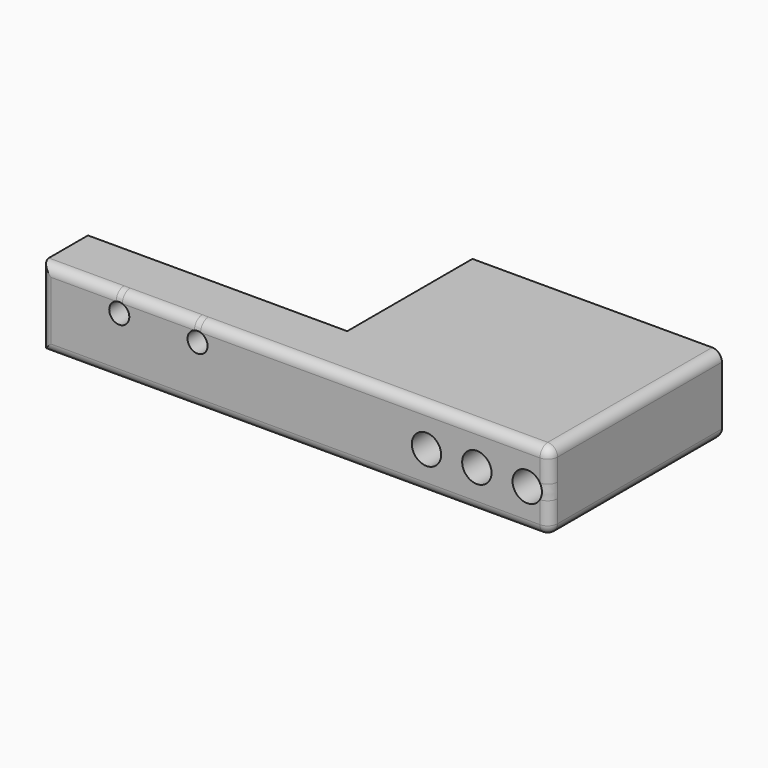
from build123d import *

# Parameters (mm, degrees)
PAD011_DEPTH    = 4
PAD012_DEPTH    = 4
PAD012_FACE11_W = 12
PAD012_FACE11_H = 8
PAD013_DEPTH    = 20
PAD014_DEPTH    = 10
SKETCH037_W     = 12
SKETCH037_H     = 2
POCKET014_DEPTH = 5
SKETCH038_W     = 12.9
SKETCH038_H     = 5.9
POCKET015_DEPTH = 5.9
SKETCH039_R     = 1.5
POCKET016_DEPTH = 20
SKETCH040_R     = 1.025
POCKET017_DEPTH = 5
SKETCH041_R     = 1.025
POCKET018_DEPTH = 20
FILLET002_R     = 1


with BuildPart() as part:
    # Sketch035 → Pad011 (new body)
    with BuildSketch(Plane.XY):
        Polygon((-7.5, -57), (19, -57), (19, -51), (24.5, -51), (24.5, -63), (-7.5, -63), align=None)
    extrude(amount=PAD011_DEPTH)

    # Sketch036 (on Face7 of Pad011) → Pad012 (join)
    with BuildSketch(Plane(origin=(0, 0, 0), x_dir=(1, 0, 0), z_dir=(0, 0, -1))):
        Polygon((-7.5, 63), (24.5, 63), (24.5, 51), (17, 51), (17, 55), (-7.5, 55), align=None)
    extrude(amount=PAD012_DEPTH)

    # Pad012 Face11 → Pad013 (add)
    with BuildSketch(Plane(origin=(24.5, -57, 0), x_dir=(0, -1, 0), z_dir=(1, 0, 0))):
        Rectangle(PAD012_FACE11_W, PAD012_FACE11_H)
    extrude(amount=PAD013_DEPTH)

    # Pad013 Face11 → Pad014 (add)
    with BuildSketch(Plane(origin=(31.231132, -51, -0.075472), x_dir=(1, 0, 0), z_dir=(0, 1, 0))):
        Polygon((-12.231132, -0.075472), (-12.231132, -4.075472), (13.268868, -4.075472), (13.268868, 3.924528), (-14.231132, 3.924528), (-14.231132, -0.075472), align=None)
    extrude(amount=PAD014_DEPTH)

    # Sketch037 (on Face9 of Pad014) → Pocket014 (cut)
    with BuildSketch(Plane(origin=(0, 0, -4), x_dir=(1, 0, 0), z_dir=(0, 0, -1))):
        with Locations((0.5, 56)):
            Rectangle(SKETCH037_W, SKETCH037_H)
    extrude(amount=-POCKET014_DEPTH, mode=Mode.SUBTRACT)

    # Sketch038 (on Face10 of Pocket014) → Pocket015 (cut)
    with BuildSketch(Plane(origin=(0, -41, 0), x_dir=(-1, 0, 0), z_dir=(0, 1, 0))):
        with Locations((-37.05, 0.05)):
            Rectangle(SKETCH038_W, SKETCH038_H)
    extrude(amount=-POCKET015_DEPTH, mode=Mode.SUBTRACT)

    # Sketch039 (on Face20 of Pocket015) → Pocket016 (cut)
    with BuildSketch(Plane(origin=(0, -46.9, 0), x_dir=(-1, 0, 0), z_dir=(0, 1, 0))):
        with Locations((-42.2, 0)):
            Circle(SKETCH039_R)
        with Locations((-37.05, 0.05)):
            Circle(SKETCH039_R)
        with Locations((-31.9, 0)):
            Circle(SKETCH039_R)
    extrude(amount=-POCKET016_DEPTH, mode=Mode.SUBTRACT)

    # Sketch040 (on Face8 of Pocket016) → Pocket017 (cut)
    with BuildSketch(Plane(origin=(0, 0, -4), x_dir=(1, 0, 0), z_dir=(0, 0, -1))):
        with Locations((40.3, 46.1)):
            Circle(SKETCH040_R)
        with Locations((33.8, 46.1)):
            Circle(SKETCH040_R)
    extrude(amount=-POCKET017_DEPTH, mode=Mode.SUBTRACT)

    # Sketch041 (on Face19 of Pocket017) → Pocket018 (cut)
    with BuildSketch(Plane.XZ.offset(63)):
        with Locations((0.5, 2.025)):
            Circle(SKETCH041_R)
        with Locations((8.5, 2.025)):
            Circle(SKETCH041_R)
    extrude(amount=-POCKET018_DEPTH, mode=Mode.SUBTRACT)

    # Fillet002
    fillet002_edges = [part.edges().sort_by_distance(p)[0] for p in [
        (18.5, -63, -4),
        (44.5, -63, 0),
        (18.5, -63, 4),
        (-7.5, -63, 0),
        (44.5, -52, -4),
        (0.5, -57, -4),
        (11.75, -55, -4),
        (17, -48, -4),
        (30.75, -41, -4),
        (44.5, -52, 4),
    ]]
    fillet(fillet002_edges, radius=FILLET002_R)


with BuildPart() as part_1:
    # Body002 placement: moved
    add(part.part.moved(Location((0, 0, 87.8927))))


solid = part_1.part
